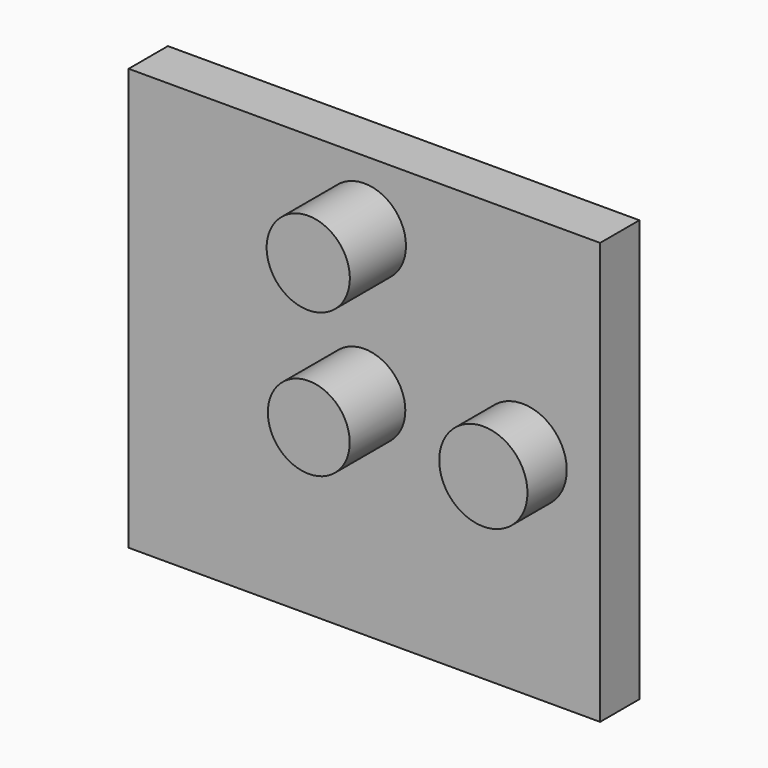
from build123d import *

# Parameters (mm, degrees)
F0_W     = 243.986786
F0_H     = 218.229026
F1_DEPTH = 25.4
F2_R     = 21.192457
F3_DEPTH = 35.958676
F4_R     = 21.528867
F5_DEPTH = 36.293864
F6_R     = 22.840136
F7_DEPTH = 25.4


with BuildPart() as f1:
    # F0 (on Front) → F1 (new body)
    with BuildSketch(Plane.XZ):
        Rectangle(F0_W, F0_H)
    extrude(amount=F1_DEPTH)

    # F2 (on face) → F3 (join)
    with BuildSketch(Plane.XZ.offset(25.4)):
        Circle(F2_R)
    extrude(amount=F3_DEPTH)

    # F4 (on face) → F5 (join)
    with BuildSketch(Plane.XZ.offset(25.4)):
        with Locations((0, 75.056374)):
            Circle(F4_R)
    extrude(amount=F5_DEPTH)

    # F6 (on face) → F7 (join)
    with BuildSketch(Plane.XZ.offset(25.4)):
        with Locations((81.895486, 0)):
            Circle(F6_R)
    extrude(amount=F7_DEPTH)


solid = f1.part
